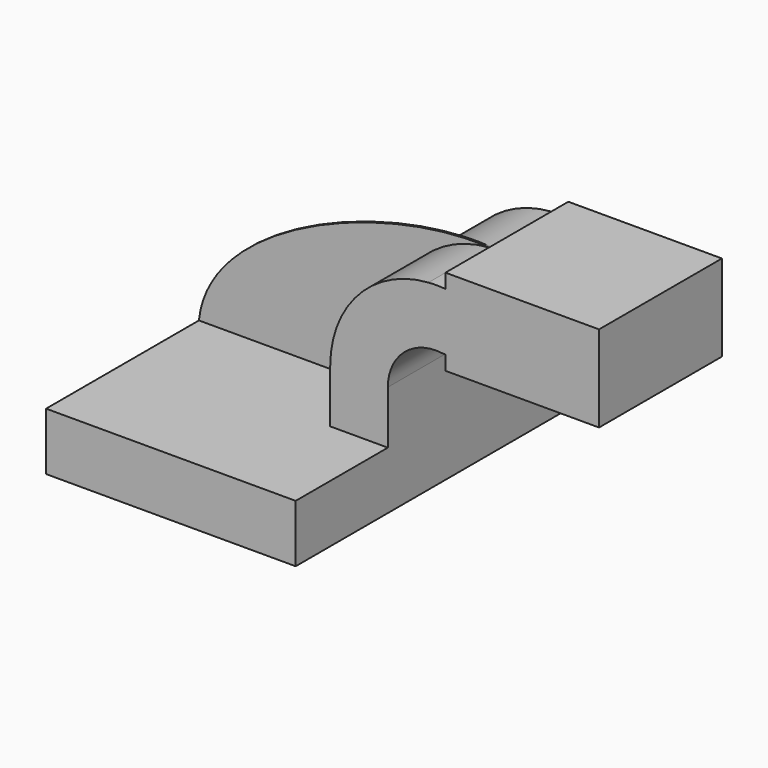
from build123d import *

# Parameters (mm, degrees)
F1_DEPTH = 63.5
F2_DEPTH = 25.4
F3_DEPTH = 0.3175


with BuildPart() as f1:
    # F0 (on Front) → F1 (new body, symmetric)
    with BuildSketch(Plane.XZ):
        Polygon((41.275, -9.525), (41.275, 9.525), (22.225, 9.525), (-41.275, 9.525), (-41.275, -9.525), align=None)
    extrude(amount=F1_DEPTH, both=True)

    # F0 (on Front) → F2 (join, symmetric)
    with BuildSketch(Plane.XZ):
        with BuildLine():
            Line((22.225, 9.525), (41.275, 9.525))
            Line((41.275, 9.525), (41.275, 27.131808))
            ThreePointArc((41.275, 27.131808), (46.670684, 39.056554), (59.189906, 42.8752))
            Line((59.189906, 42.8752), (60.325, 42.8752))
            Line((60.325, 42.8752), (60.325, 61.9252))
            Line((60.325, 61.9252), (60.179103, 61.9252))
            ThreePointArc((60.179103, 61.9252), (57.43684, 62.05563), (54.692804, 61.970261))
            ThreePointArc((54.692804, 61.970261), (31.600311, 50.942919), (22.225, 27.131808))
            Line((22.225, 27.131808), (22.225, 9.525))
        make_face()
        Polygon((60.325, 61.9252), (60.325, 42.8752), (60.325, 38.1), (111.125, 38.1), (111.125, 66.675), (60.325, 66.675), align=None)
    extrude(amount=F2_DEPTH, both=True)

    # F0 (on Front) → F3 (join, symmetric)
    with BuildSketch(Plane.XZ):
        with BuildLine():
            Line((-41.275, 9.525), (22.225, 9.525))
            Line((22.225, 9.525), (22.225, 27.131808))
            ThreePointArc((22.225, 27.131808), (31.600311, 50.942919), (54.692804, 61.970261))
            add(Edge.make_bspline(
                [(-41.275, 9.525), (-38.055819, 41.44999), (20.570714, 64.283475), (54.692804, 61.970261)],
                knots=[0, 0, 0, 0, 109.36327, 109.36327, 109.36327, 109.36327], degree=3))
        make_face()
    extrude(amount=F3_DEPTH, both=True)


solid = f1.part
